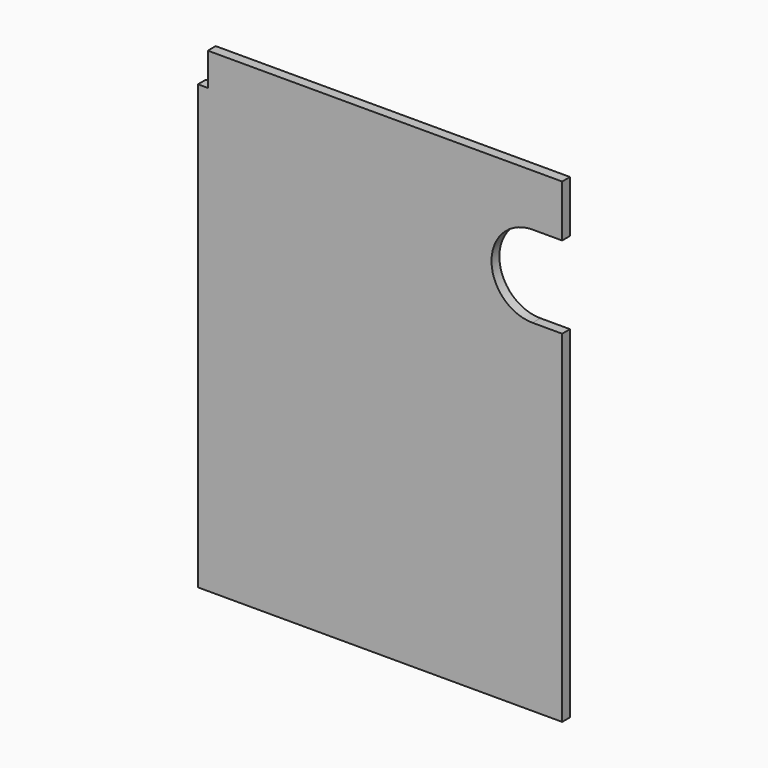
from build123d import *

# Parameters (mm, degrees)
F1_DEPTH = 18
F3_DEPTH = 18


with BuildPart() as f1:
    # F0 (on Front) → F1 (new body)
    with BuildSketch(Plane.XZ):
        Polygon((333, -435), (333, 435), (-315, 435), (-315, 375), (-333, 375), (-333, -435), align=None)
    extrude(amount=F1_DEPTH)

    # F2 (on face) → F3 (cut)
    with BuildSketch(Plane.XZ.offset(18)):
        with BuildLine():
            Line((333, 340), (278.80919, 340))
            ThreePointArc((278.80919, 340), (203.80919, 265), (278.80919, 190))
            Line((278.80919, 190), (333, 190))
            Line((333, 190), (333, 340))
        make_face()
    extrude(amount=-F3_DEPTH, mode=Mode.SUBTRACT)


solid = f1.part
